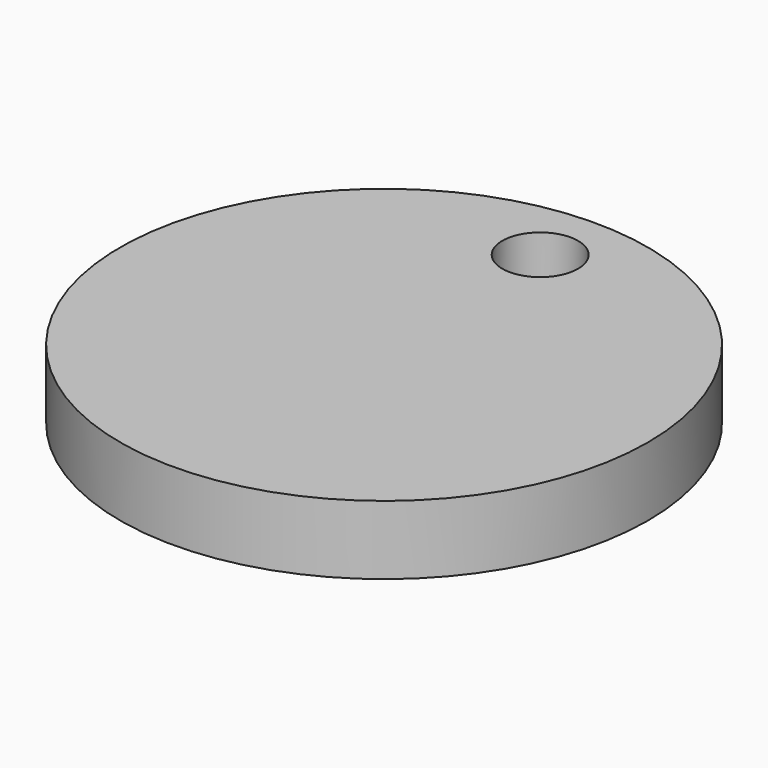
from build123d import *

# Parameters (mm, degrees)
F0_R     = 11.5
F0_R_2   = 2.75
F0_R_3   = 1.65
F1_DEPTH = 3
F2_DEPTH = 1


with BuildPart() as f1:
    # F0 (on Top) → F1 (new body)
    with BuildSketch(Plane.XY):
        Circle(F0_R)
        with Locations((0, 8.5)):
            Circle(F0_R_2, mode=Mode.SUBTRACT)
        with Locations((0, 8.5)):
            Circle(F0_R_2)
        with Locations((0, 8.5)):
            Circle(F0_R_3, mode=Mode.SUBTRACT)
    extrude(amount=F1_DEPTH)

    # F0 (on Top) → F2 (cut)
    with BuildSketch(Plane.XY):
        with Locations((0, 8.5)):
            Circle(F0_R_2)
        with Locations((0, 8.5)):
            Circle(F0_R_3, mode=Mode.SUBTRACT)
    extrude(amount=F2_DEPTH, mode=Mode.SUBTRACT)


solid = f1.part
